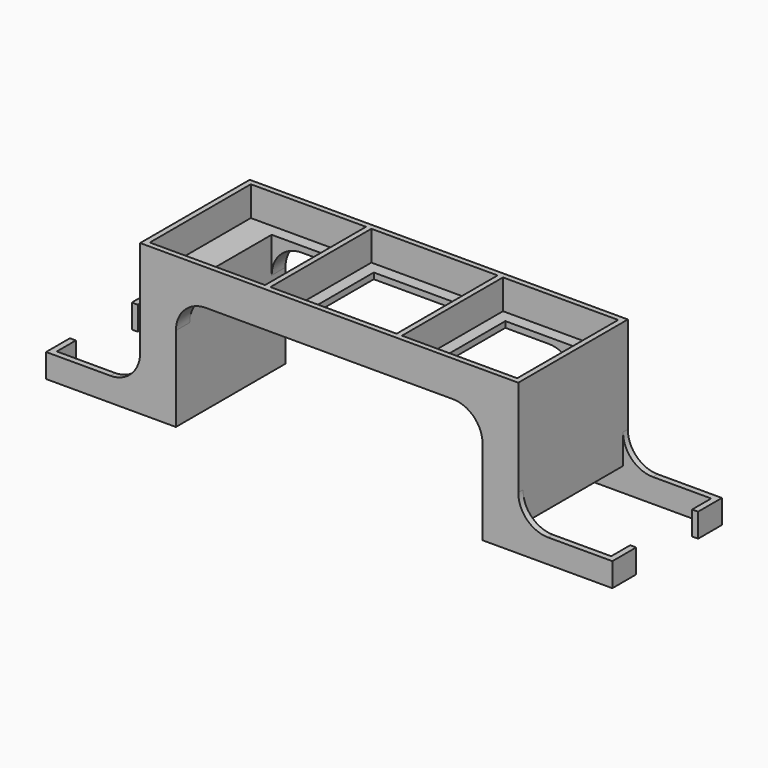
from build123d import *

# Parameters (mm, degrees)
SKETCH_W      = 127
SKETCH_H      = 46
PAD_DEPTH     = 2
SKETCH001_W   = 127
SKETCH001_H   = 46
SKETCH001_W_2 = 42.4
SKETCH001_H_2 = 42.4
SKETCH001_W_3 = 38.7
PAD001_DEPTH  = 10
SKETCH002_W   = 24.5
SKETCH002_H   = 34.4
SKETCH002_W_2 = 34.4
POCKET_DEPTH  = 2.001
SKETCH004_W   = 12
SKETCH004_H   = 46
PAD002_DEPTH  = 30.5
PAD003_DEPTH  = 8
FILLET_R      = 10


with BuildPart() as part:
    # Sketch → Pad (new body)
    with BuildSketch(Plane.XY):
        Rectangle(SKETCH_W, SKETCH_H)
    extrude(amount=PAD_DEPTH)

    # Sketch001 → Pad001 (new body)
    with BuildSketch(Plane.XY.offset(2)):
        Rectangle(SKETCH001_W, SKETCH001_H)
        Rectangle(SKETCH001_W_2, SKETCH001_H_2, mode=Mode.SUBTRACT)
        with Locations((-42.35, 0)):
            Rectangle(SKETCH001_W_3, SKETCH001_H_2, mode=Mode.SUBTRACT)
        with Locations((42.35, 0)):
            Rectangle(SKETCH001_W_3, SKETCH001_H_2, mode=Mode.SUBTRACT)
    extrude(amount=PAD001_DEPTH)

    # Sketch002 → Pocket (cut, through all)
    with BuildSketch(Plane.XY.offset(2)):
        with Locations((-39.25, 0)):
            Rectangle(SKETCH002_W, SKETCH002_H)
        Rectangle(SKETCH002_W_2, SKETCH002_H)
        with Locations((39.25, 0)):
            Rectangle(SKETCH002_W, SKETCH002_H)
    extrude(amount=-POCKET_DEPTH, mode=Mode.SUBTRACT)

    # Sketch004 → Pad002 (new body)
    with BuildSketch(Plane(origin=(0, 0, 0), x_dir=(1, 0, 0), z_dir=(0, 0, -1))):
        with Locations((-57.5, 0)):
            Rectangle(SKETCH004_W, SKETCH004_H)
        with Locations((57.5, 0)):
            Rectangle(SKETCH004_W, SKETCH004_H)
    extrude(amount=PAD002_DEPTH)

    # Sketch005 → Pad003 (new body)
    with BuildSketch(Plane(origin=(0, 0, -30.5), x_dir=(1, 0, 0), z_dir=(0, 0, -1))):
        Polygon((-51.5, 23), (-95.1, 23), (-95.1, 13), (-93.1, 13), (-93.1, 21), (-53.5, 21), (-53.5, -21), (-93.1, -21), (-93.1, -13), (-95.1, -13), (-95.1, -23), (-51.5, -23), align=None)
        Polygon((51.5, 23), (95.1, 23), (95.1, 13), (93.1, 13), (93.1, 21), (53.5, 21), (53.5, -21), (93.1, -21), (93.1, -13), (95.1, -13), (95.1, -23), (51.5, -23), align=None)
    extrude(amount=PAD003_DEPTH)

    # Fillet
    fillet_edges = [part.edges().sort_by_distance(p)[0] for p in [
        (-63.5, -22, -30.5),
        (-63.5, 22, -30.5),
        (63.5, -22, -30.5),
        (63.5, 22, -30.5),
        (-51.5, -20.1, 0),
        (-51.5, 20.1, 0),
        (51.5, -20.1, 0),
        (51.5, 20.1, 0),
    ]]
    fillet(fillet_edges, radius=FILLET_R)


solid = part.part
